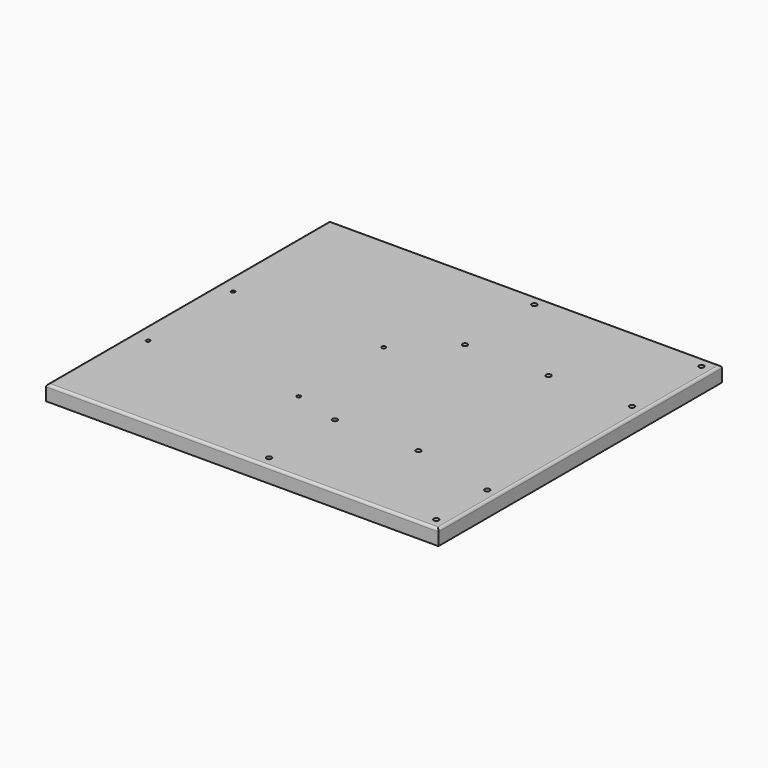
from build123d import *

# Parameters (mm, degrees)
F0_W      = 310
F0_H      = 280
F1_DEPTH  = 12
F2_R      = 2
F3_R      = 2
F4_DEPTH  = 25
F5_R      = 5
F6_DEPTH  = 5
F7_R      = 1.5
F8_DEPTH  = 25
F9_R      = 5
F10_DEPTH = 5


with BuildPart() as f1:
    # F0 (on Top) → F1 (new body)
    with BuildSketch(Plane.XY):
        Rectangle(F0_W, F0_H)
    extrude(amount=F1_DEPTH)

    # F2
    f2_edges = [f1.edges().sort_by_distance(p)[0] for p in [
        (0, -140, 12),
        (155, 0, 12),
        (0, 140, 12),
        (-155, 0, 12),
    ]]
    fillet(f2_edges, radius=F2_R)

    # F3 (on face) → F4 (cut)
    with BuildSketch(Plane.XY.offset(12)):
        with Locations((14, -131)):
            Circle(F3_R)
        with Locations((14, 131)):
            Circle(F3_R)
        with Locations((146, 131)):
            Circle(F3_R)
        with Locations((146, -131)):
            Circle(F3_R)
        with Locations((146, 62.5)):
            Circle(F3_R)
        with Locations((146, -80.5)):
            Circle(F3_R)
        with Locations((14, -66)):
            Circle(F3_R)
        with Locations((14, 62.5)):
            Circle(F3_R)
        with Locations((80, 62.5)):
            Circle(F3_R)
        with Locations((80, -66)):
            Circle(F3_R)
    extrude(amount=-F4_DEPTH, mode=Mode.SUBTRACT)

    # F5 (on face) → F6 (cut)
    with BuildSketch(Plane(origin=(0, 0, 0), x_dir=(1, 0, 0), z_dir=(0, 0, -1))):
        with Locations((14, 131)):
            Circle(F5_R)
        with Locations((14, 66)):
            Circle(F5_R)
        with Locations((146, 80.5)):
            Circle(F5_R)
        with Locations((146, 131)):
            Circle(F5_R)
        with Locations((146, -62.5)):
            Circle(F5_R)
        with Locations((14, -62.5)):
            Circle(F5_R)
        with Locations((14, -131)):
            Circle(F5_R)
        with Locations((146, -131)):
            Circle(F5_R)
        with Locations((80, -62.5)):
            Circle(F5_R)
        with Locations((80, 66)):
            Circle(F5_R)
    extrude(amount=-F6_DEPTH, mode=Mode.SUBTRACT)

    # F7 (on face) → F8 (cut)
    with BuildSketch(Plane.XY.offset(12)):
        with Locations((-142, 28.5)):
            Circle(F7_R)
        with Locations((-23, 28.5)):
            Circle(F7_R)
        with Locations((-23, -55.5)):
            Circle(F7_R)
        with Locations((-142, -55.5)):
            Circle(F7_R)
    extrude(amount=-F8_DEPTH, mode=Mode.SUBTRACT)

    # F9 (on face) → F10 (cut)
    with BuildSketch(Plane(origin=(0, 0, 0), x_dir=(1, 0, 0), z_dir=(0, 0, -1))):
        with Locations((-142, 55.5)):
            Circle(F9_R)
        with Locations((-142, -28.5)):
            Circle(F9_R)
        with Locations((-23, -28.5)):
            Circle(F9_R)
        with Locations((-23, 55.5)):
            Circle(F9_R)
    extrude(amount=-F10_DEPTH, mode=Mode.SUBTRACT)


solid = f1.part
